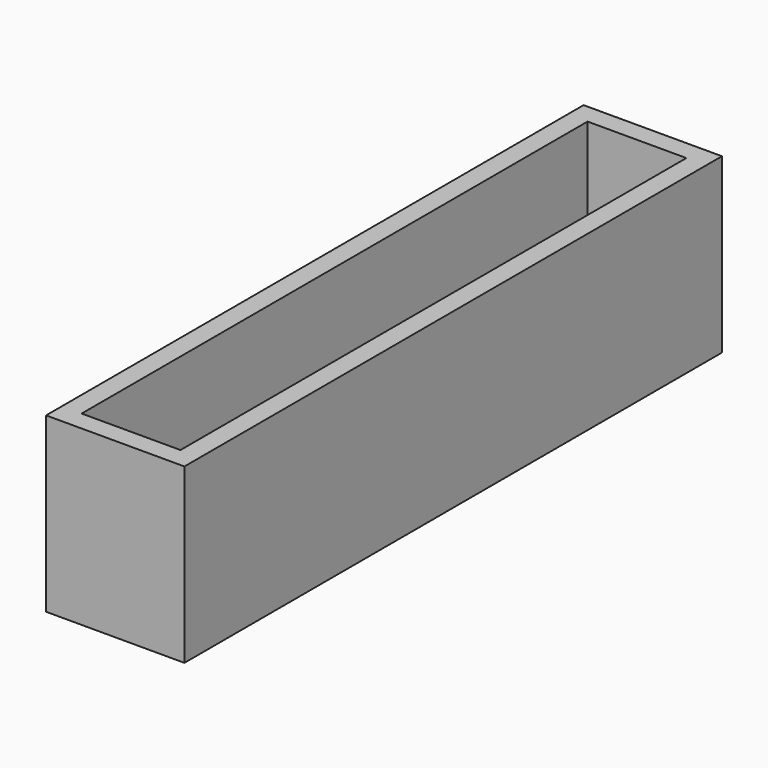
from build123d import *

# Parameters (mm, degrees)
SKETCH_W     = 5.6
SKETCH_H     = 27.2
PAD_DEPTH    = 7
SKETCH001_W  = 4
SKETCH001_H  = 25.6
POCKET_DEPTH = 30


with BuildPart() as part:
    # Sketch → Pad (new body)
    with BuildSketch(Plane.XY):
        Rectangle(SKETCH_W, SKETCH_H)
    extrude(amount=PAD_DEPTH)

    # Sketch001 (on Face5 of Pad) → Pocket (cut)
    with BuildSketch(Plane(origin=(0, 0, 0), x_dir=(1, 0, 0), z_dir=(0, 0, -1))):
        Rectangle(SKETCH001_W, SKETCH001_H)
    extrude(amount=-POCKET_DEPTH, mode=Mode.SUBTRACT)


solid = part.part
